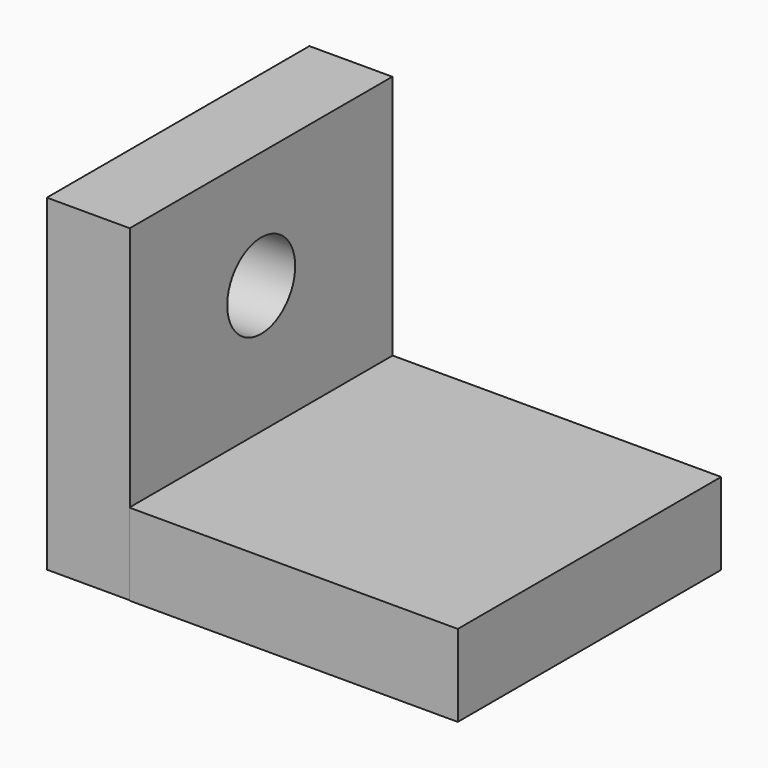
from build123d import *

# Parameters (mm, degrees)
F2_DEPTH = 12.7
F1_W     = 12.8612825647
F1_H     = 50.9009920061
F3_DEPTH = 50.8
F4_R     = 6.5875733698
F5_DEPTH = 41.656


with BuildPart() as f2:
    # F0 (on Top) → F2 (new body)
    with BuildSketch(Plane.XY):
        Polygon((0, 25.4809688777), (0, 0), (0, -25.5783628672), (50.953771919, -25.5783628672), (50.953771919, 25.4809688777), align=None)
    extrude(amount=F2_DEPTH)

    # F1 (on Top) → F3 (join)
    with BuildSketch(Plane.XY):
        with Locations((-6.4306412823, -0.0304728746)):
            Rectangle(F1_W, F1_H)
    extrude(amount=F3_DEPTH)

    # F4 (on face) → F5 (cut)
    with BuildSketch(Plane.YZ):
        with Locations((0, 32.6068140566)):
            Circle(F4_R)
    extrude(amount=-F5_DEPTH, mode=Mode.SUBTRACT)


solid = f2.part
